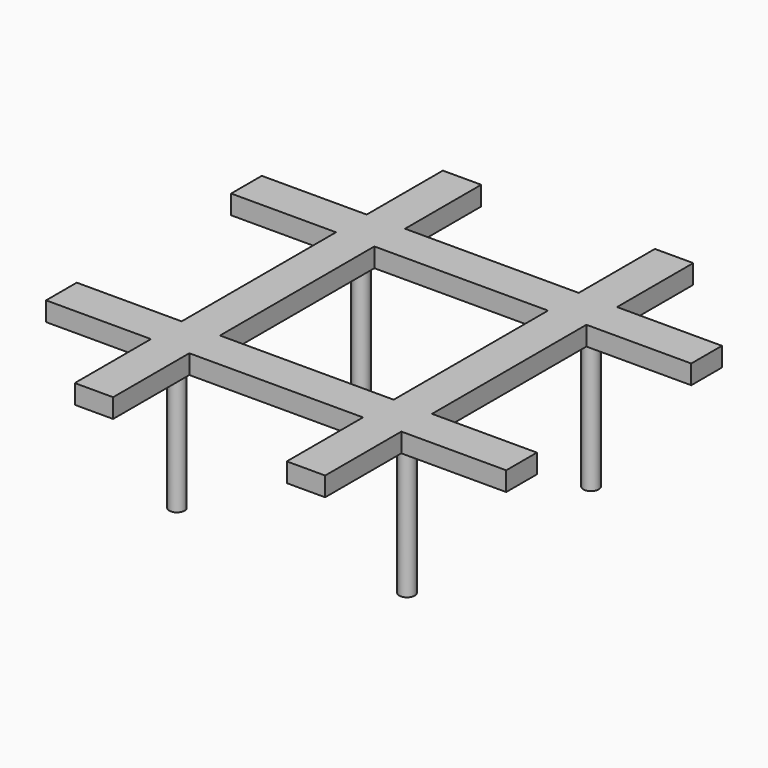
from build123d import *

# Parameters (mm, degrees)
F0_W     = 27.3508801786
F0_H     = 10
F0_W_2   = 10
F0_H_2   = 24.8394228371
F0_W_3   = 45.2982396428
F0_H_3   = 50.3211543259
F1_DEPTH = 5
F2_R     = 2
F3_DEPTH = 35


with BuildPart() as f1:
    # F0 (on Top) → F1 (new body)
    with BuildSketch(Plane.XY):
        with Locations((-46.3245599107, 30.1605771629)):
            Rectangle(F0_W, F0_H)
        with Locations((-27.6491198214, 30.1605771629)):
            Rectangle(F0_W_2, F0_H)
        with Locations((-27.6491198214, 47.5802885815)):
            Rectangle(F0_W_2, F0_H_2)
        with Locations((0, 30.1605771629)):
            Rectangle(F0_W_3, F0_H)
        with Locations((27.6491198214, 30.1605771629)):
            Rectangle(F0_W_2, F0_H)
        with Locations((27.6491198214, 47.5802885815)):
            Rectangle(F0_W_2, F0_H_2)
        with Locations((46.3245599107, 30.1605771629)):
            Rectangle(F0_W, F0_H)
        with Locations((27.6491198214, 0)):
            Rectangle(F0_W_2, F0_H_3)
        with Locations((27.6491198214, -30.1605771629)):
            Rectangle(F0_W_2, F0_H)
        with Locations((46.3245599107, -30.1605771629)):
            Rectangle(F0_W, F0_H)
        with Locations((27.6491198214, -47.5802885815)):
            Rectangle(F0_W_2, F0_H_2)
        with Locations((-27.6491198214, -30.1605771629)):
            Rectangle(F0_W_2, F0_H)
        with Locations((-46.3245599107, -30.1605771629)):
            Rectangle(F0_W, F0_H)
        with Locations((0, -30.1605771629)):
            Rectangle(F0_W_3, F0_H)
        with Locations((-27.6491198214, -47.5802885815)):
            Rectangle(F0_W_2, F0_H_2)
        with Locations((-27.6491198214, 0)):
            Rectangle(F0_W_2, F0_H_3)
    extrude(amount=F1_DEPTH)

    # F2 (on face) → F3 (join)
    with BuildSketch(Plane(origin=(0, 0, 0), x_dir=(1, 0, 0), z_dir=(0, 0, -1))):
        with Locations((-30, 30)):
            Circle(F2_R)
        with Locations((30, 30)):
            Circle(F2_R)
        with Locations((30, -30)):
            Circle(F2_R)
        with Locations((-30, -30)):
            Circle(F2_R)
    extrude(amount=F3_DEPTH)


solid = f1.part
